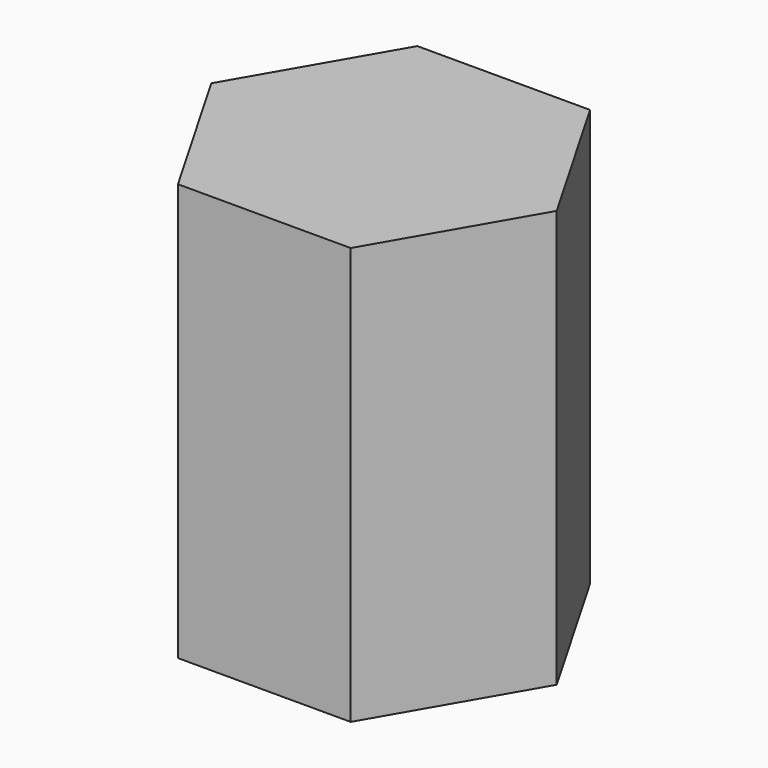
from build123d import *

# Parameters (mm, degrees)
F1_DEPTH = 46.228
F2_DEPTH = 25.4


with BuildPart() as f1:
    # F0 (on Top) → F1 (new body)
    with BuildSketch(Plane.XY):
        Polygon((14.825372, -25.687612), (29.658811, -0.004657), (14.833439, 25.682955), (-14.825372, 25.687612), (-29.658811, 0.004657), (-14.833439, -25.682955), align=None)
    extrude(amount=F1_DEPTH)

    # F1_face (on face) → F2 (join)
    with BuildSketch(Plane.XY.offset(46.228)):
        Polygon((14.825372, -25.687612), (29.658811, -0.004657), (14.833439, 25.682955), (-14.825372, 25.687612), (-29.658811, 0.004657), (-14.833439, -25.682955), align=None)
    extrude(amount=F2_DEPTH)


solid = f1.part
